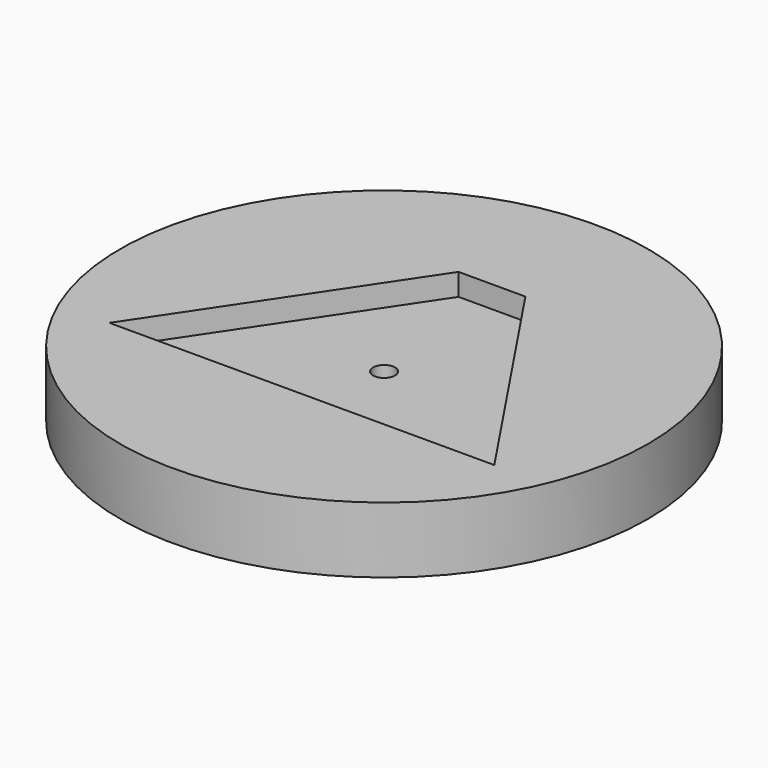
from build123d import *

# Parameters (mm, degrees)
F0_R     = 76.2
F0_R_2   = 3.175
F1_DEPTH = 19.05
F3_DEPTH = 6.35


with BuildPart() as f1:
    # F0 (on Top) → F1 (new body)
    with BuildSketch(Plane.XY):
        Circle(F0_R)
        Circle(F0_R_2, mode=Mode.SUBTRACT)
    extrude(amount=F1_DEPTH)

    # F2 (on face) → F3 (cut)
    with BuildSketch(Plane.XY.offset(19.05)):
        Polygon((9.652, 38.927315), (-9.652, 38.927315), (-55.5625, -29.678286), (55.5625, -29.678286), align=None)
    extrude(amount=-F3_DEPTH, mode=Mode.SUBTRACT)


solid = f1.part
